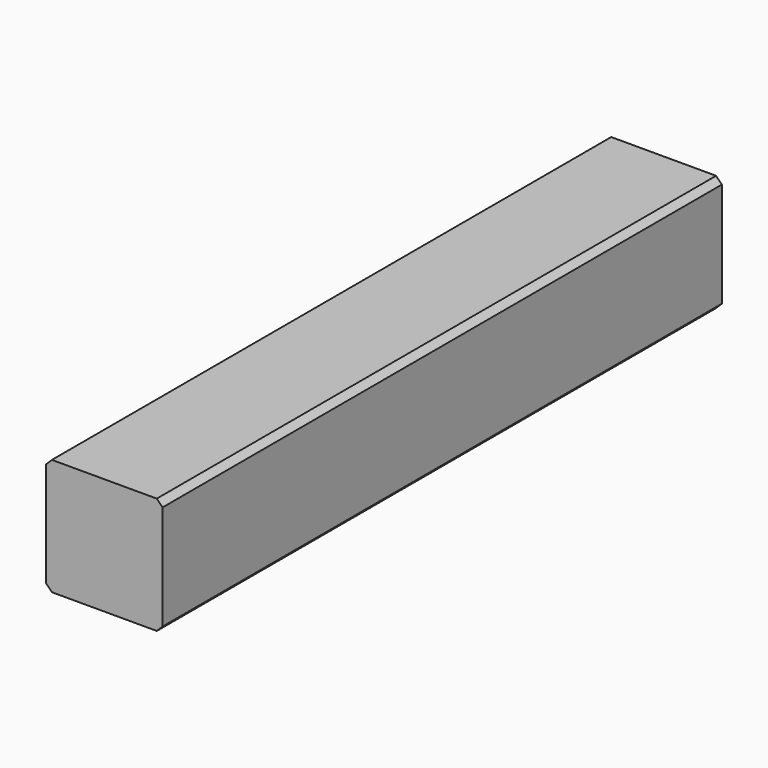
from build123d import *

# Parameters (mm, degrees)
F0_W     = 10
F0_H     = 10
F1_DEPTH = 30
F2_SIZE  = 0.5


with BuildPart() as f1:
    # F0 (on Front) → F1 (new body, symmetric)
    with BuildSketch(Plane.XZ):
        Rectangle(F0_W, F0_H)
    extrude(amount=F1_DEPTH, both=True)

    # F2
    f2_edges = [f1.edges().sort_by_distance(p)[0] for p in [
        (5, 0, 5),
        (5, 0, -5),
        (-5, 0, 5),
        (-5, 0, -5),
    ]]
    chamfer(f2_edges, length=F2_SIZE)


solid = f1.part
